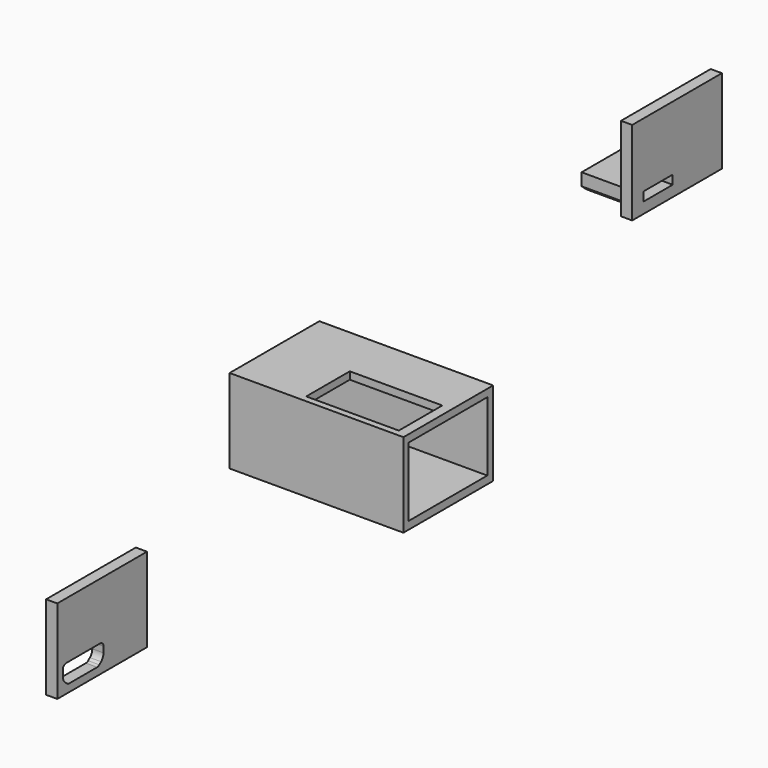
from build123d import *

# Parameters (mm, degrees)
F0_W           = 31
F0_H           = 20
F0_W_2         = 16.5
F0_H_2         = 9.7
F1_DEPTH       = 15
F2_W           = 17.5128383562
F2_H           = 12.3006843496
F3_DEPTH       = 31
F4_W           = 20
F4_H           = 15
F5_DEPTH       = 2
F6_DEPTH       = 15.501
F7_R           = 1.524
F8_R           = 0.762
F9_W           = 20
F9_H           = 15
F10_DEPTH      = 2
F11_R          = 1.524
F12_R          = 0.508
F9_W_2         = 6.5408784162
F9_H_2         = 1.6
F13_DEPTH      = 8
F13_DEPTH_BACK = 2
F14_DEPTH      = 1.3791888487


with BuildPart() as f1:
    # F0 (on Top) → F1 (new body)
    with BuildSketch(Plane.XY):
        Rectangle(F0_W, F0_H)
        with Locations((5.5, -4)):
            Rectangle(F0_W_2, F0_H_2, mode=Mode.SUBTRACT)
    extrude(amount=F1_DEPTH)

    # F2 (on face) → F3 (cut, through all)
    with BuildSketch(Plane.YZ.offset(15.5)):
        with Locations((-0.0618002377, 7.5295310235)):
            Rectangle(F2_W, F2_H)
    extrude(amount=-F3_DEPTH, mode=Mode.SUBTRACT)

    # F4 (on Right) → F6 (cut, through all)
    with BuildSketch(Plane.YZ):
        Polygon((-59.9870646918, -3.6433568521), (-59.9870646918, -1.1433568521), (-69.0679431081, -1.1433568521), (-69.0679431081, -3.6433568521), (-67.9240242911, -4.6136401819), (-61.1309835089, -4.6136401819), align=None)
    extrude(amount=-F6_DEPTH, mode=Mode.SUBTRACT)

    # F0 (on Top) → F14 (join, through all)
    with BuildSketch(Plane.XY):
        with Locations((5.5, -4)):
            Rectangle(F0_W_2, F0_H_2)
    extrude(amount=F14_DEPTH)


with BuildPart() as f5:
    # F4 (on Right) → F5 (new body)
    with BuildSketch(Plane.YZ):
        with Locations((-60.2870646918, 1.5166431479)):
            Rectangle(F4_W, F4_H)
        Polygon((-69.0679431081, -1.1433568521), (-59.9870646918, -1.1433568521), (-59.9870646918, -3.6433568521), (-61.1309835089, -4.6136401819), (-67.9240242911, -4.6136401819), (-69.0679431081, -3.6433568521), align=None, mode=Mode.SUBTRACT)
    extrude(amount=F5_DEPTH)

    # F7
    f7_edges = [f5.edges().sort_by_distance(p)[0] for p in [
        (1, -59.987065, -3.643357),
        (1, -69.067943, -3.643357),
    ]]
    fillet(f7_edges, radius=F7_R)

    # F8
    f8_edges = [f5.edges().sort_by_distance(p)[0] for p in [
        (1, -59.987065, -1.143357),
        (1, -69.067943, -1.143357),
        (1, -61.130984, -4.61364),
        (1, -67.924024, -4.61364),
    ]]
    fillet(f8_edges, radius=F8_R)


with BuildPart() as f10:
    # F9 (on Right) → F10 (new body)
    with BuildSketch(Plane.YZ):
        with Locations((67.8698294036, 24.5409083115)):
            Rectangle(F9_W, F9_H)
        Polygon((66.8998294036, 20.8654734174), (68.1698294036, 20.8654734174), (68.1698294036, 18.6654734174), (67.0259105866, 17.6951900876), (60.2328698044, 17.6951900876), (59.0889509874, 18.6654734174), (59.0889509874, 20.8654734174), (60.3589509874, 20.8654734174), align=None, mode=Mode.SUBTRACT)
    extrude(amount=F10_DEPTH)

    # F11
    f11_edges = [f10.edges().sort_by_distance(p)[0] for p in [
        (1, 68.169829, 18.665473),
        (1, 59.088951, 18.665473),
    ]]
    fillet(f11_edges, radius=F11_R)

    # F12
    f12_edges = [f10.edges().sort_by_distance(p)[0] for p in [
        (1, 68.169829, 20.865473),
        (1, 59.088951, 20.865473),
    ]]
    fillet(f12_edges, radius=F12_R)

    # F9 (on Right) → F13 (join, two sides)
    with BuildSketch(Plane.YZ) as f13_sk:
        Polygon((68.1698294036, 18.6654734174), (68.1698294036, 20.8654734174), (66.8998294036, 20.8654734174), (60.3589509874, 20.8654734174), (59.0889509874, 20.8654734174), (59.0889509874, 18.6654734174), (60.2328698044, 17.6951900876), (67.0259105866, 17.6951900876), align=None)
        with Locations((63.6293901955, 19.7831424505)):
            Rectangle(F9_W_2, F9_H_2, mode=Mode.SUBTRACT)
    extrude(amount=-F13_DEPTH)
    extrude(f13_sk.sketch, amount=F13_DEPTH_BACK)


solid = Compound([f1.part, f5.part, f10.part])
